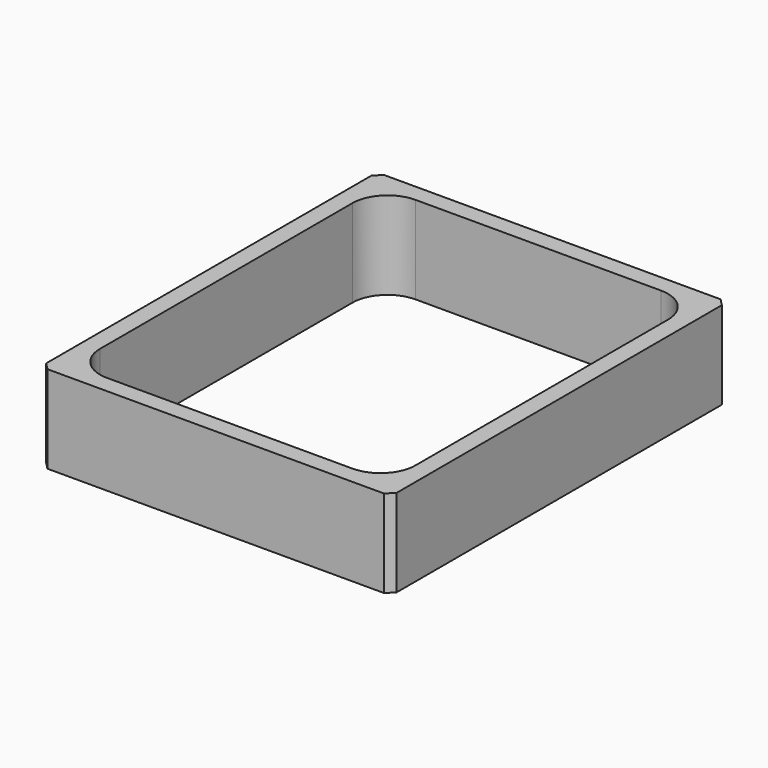
from build123d import *

# Parameters (mm, degrees)
F0_W     = 254
F0_H     = 304.8
F1_DEPTH = 63.5
F2_SIZE  = 5.08


with BuildPart() as f1:
    # F0 (on Top) → F1 (new body)
    with BuildSketch(Plane.XY):
        Rectangle(F0_W, F0_H)
        with BuildLine():
            ThreePointArc((-114.3, 114.3), (-106.860512, 132.260512), (-88.9, 139.7))
            Line((-88.9, 139.7), (88.9, 139.7))
            ThreePointArc((88.9, 139.7), (106.860512, 132.260512), (114.3, 114.3))
            Line((114.3, 114.3), (114.3, -114.3))
            ThreePointArc((114.3, -114.3), (106.860512, -132.260512), (88.9, -139.7))
            Line((88.9, -139.7), (-88.9, -139.7))
            ThreePointArc((-88.9, -139.7), (-106.860512, -132.260512), (-114.3, -114.3))
            Line((-114.3, -114.3), (-114.3, 114.3))
        make_face(mode=Mode.SUBTRACT)
    extrude(amount=F1_DEPTH)

    # F2
    f2_edges = [f1.edges().sort_by_distance(p)[0] for p in [
        (-127, 152.4, 31.75),
        (127, 152.4, 31.75),
        (127, -152.4, 31.75),
        (-127, -152.4, 31.75),
    ]]
    chamfer(f2_edges, length=F2_SIZE)


solid = f1.part
